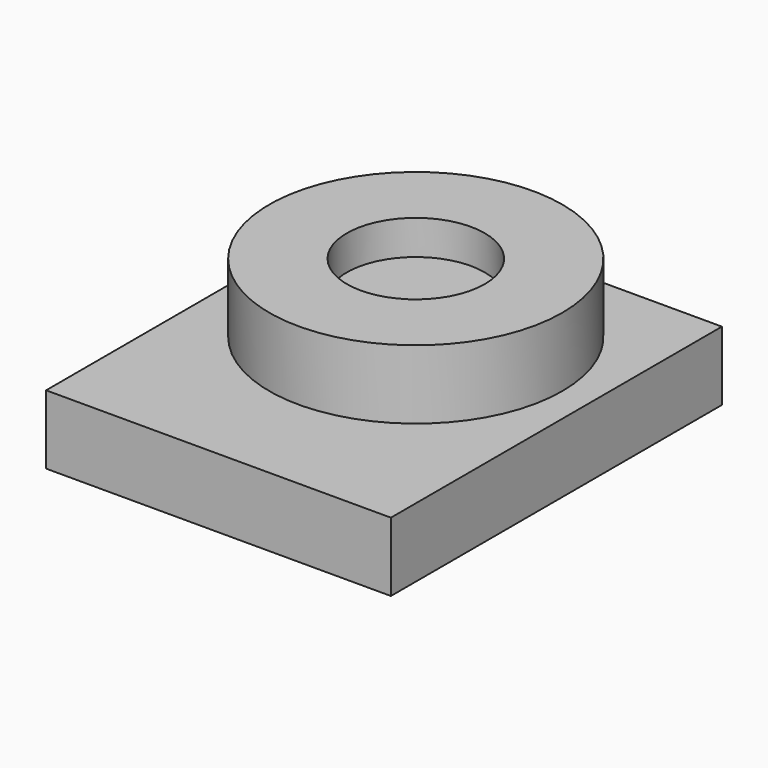
from build123d import *

# Parameters (mm, degrees)
BOX_W        = 10
BOX_H        = 12
BOX_DEPTH    = 2
SKETCH_R     = 4.25
PAD_DEPTH    = 2
SKETCH001_R  = 2
POCKET_DEPTH = 1


with BuildPart() as part:
    # Box → Box (new body)
    with BuildSketch(Plane.XY):
        with Locations((5, 6)):
            Rectangle(BOX_W, BOX_H)
    extrude(amount=BOX_DEPTH)

    # Sketch → Pad (new body)
    with BuildSketch(Plane.XY.offset(2)):
        with Locations((4.904306, 7.272724)):
            Circle(SKETCH_R)
    extrude(amount=PAD_DEPTH)

    # Sketch001 → Pocket (cut)
    with BuildSketch(Plane.XY.offset(4)):
        with Locations((4.904306, 7.272724)):
            Circle(SKETCH001_R)
    extrude(amount=-POCKET_DEPTH, mode=Mode.SUBTRACT)


solid = part.part
